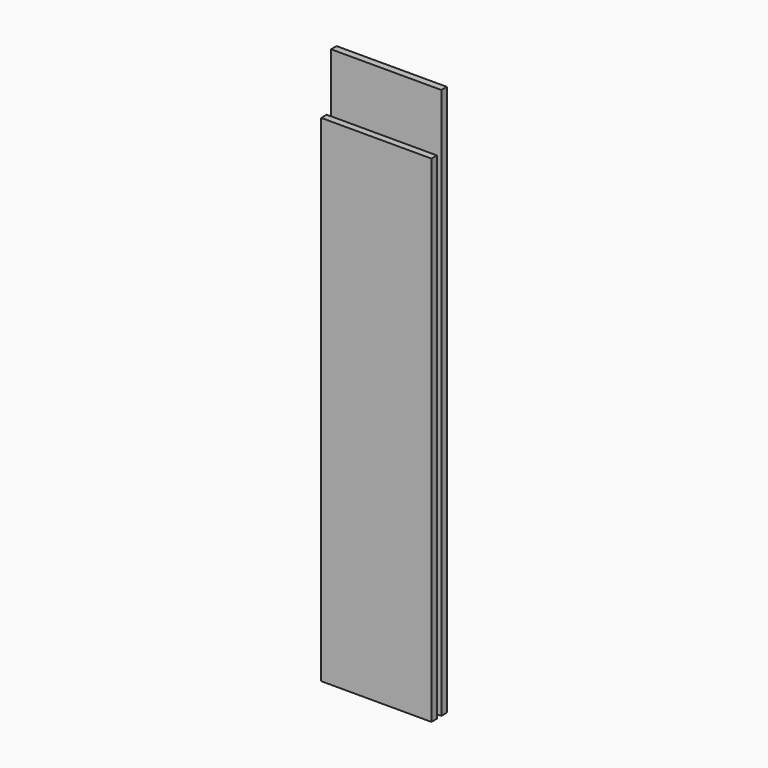
from build123d import *

# Parameters (mm, degrees)
F0_W     = 50.8
F0_H     = 3.175
F1_DEPTH = 203.2
F2_W     = 76.2
F2_H     = 4.7625
F3_DEPTH = 342.9
F4_W     = 76.2
F4_H     = 4.7625
F5_DEPTH = 381


with BuildPart() as f1:
    # F0 (on Top) → F1 (new body)
    with BuildSketch(Plane.XY):
        with Locations((25.4, 1.5875)):
            Rectangle(F0_W, F0_H)
    extrude(amount=F1_DEPTH)


with BuildPart() as f3:
    # F2 (on Top) → F3 (new body)
    with BuildSketch(Plane.XY):
        with Locations((38.1, -16.049239)):
            Rectangle(F2_W, F2_H)
    extrude(amount=F3_DEPTH)


with BuildPart() as f5:
    # F4 (on Top) → F5 (new body)
    with BuildSketch(Plane.XY):
        with Locations((37.866843, -7.220373)):
            Rectangle(F4_W, F4_H)
    extrude(amount=F5_DEPTH)


solid = Compound([f1.part, f3.part, f5.part])
